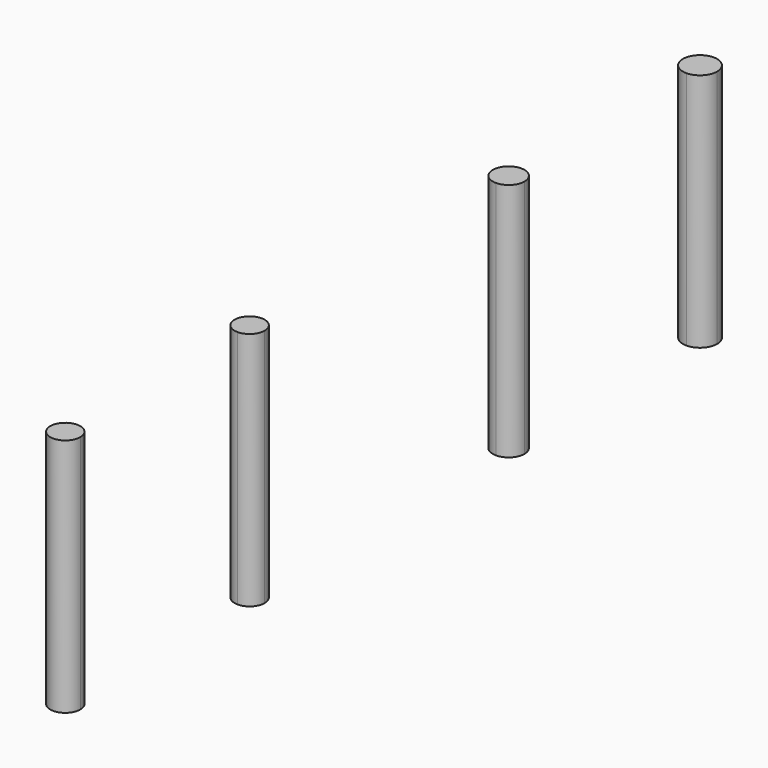
from build123d import *

# Parameters (mm, degrees)
F1_DEPTH = 25.4


with BuildPart() as f1:
    # F0 (on Top) → F1 (new body)
    with BuildSketch(Plane.XY):
        with BuildLine():
            ThreePointArc((0, 61.437821), (-1.813821, 59.624), (0, 57.810179))
            Line((0, 57.810179), (0, 59.624))
            Line((0, 59.624), (0, 61.437821))
        make_face()
        with BuildLine():
            Line((0, 59.624), (0, 57.810179))
            ThreePointArc((0, 57.810179), (1.282565, 58.341435), (1.813821, 59.624))
            ThreePointArc((1.813821, 59.624), (1.282565, 60.906565), (0, 61.437821))
            Line((0, 61.437821), (0, 59.624))
        make_face()
        with BuildLine():
            ThreePointArc((0, 35.965433), (-1.675433, 34.29), (0, 32.614567))
            Line((0, 32.614567), (0, 34.29))
            Line((0, 34.29), (0, 35.965433))
        make_face()
        with BuildLine():
            Line((0, 34.29), (0, 32.614567))
            ThreePointArc((0, 32.614567), (1.18471, 33.10529), (1.675433, 34.29))
            ThreePointArc((1.675433, 34.29), (1.18471, 35.47471), (0, 35.965433))
            Line((0, 35.965433), (0, 34.29))
        make_face()
        with BuildLine():
            ThreePointArc((0, 1.5875), (-1.5875, 0), (0, -1.5875))
            Line((0, -1.5875), (0, 0))
            Line((0, 0), (0, 1.5875))
        make_face()
        with BuildLine():
            Line((0, 0), (0, -1.5875))
            ThreePointArc((0, -1.5875), (1.122532, -1.122532), (1.5875, 0))
            ThreePointArc((1.5875, 0), (1.122532, 1.122532), (0, 1.5875))
            Line((0, 1.5875), (0, 0))
        make_face()
        with BuildLine():
            ThreePointArc((1.5875, -24.407149), (1.122532, -23.284617), (0, -22.819649))
            ThreePointArc((0, -22.819649), (-1.122532, -25.529681), (1.5875, -24.407149))
        make_face()
    extrude(amount=F1_DEPTH)


solid = f1.part
